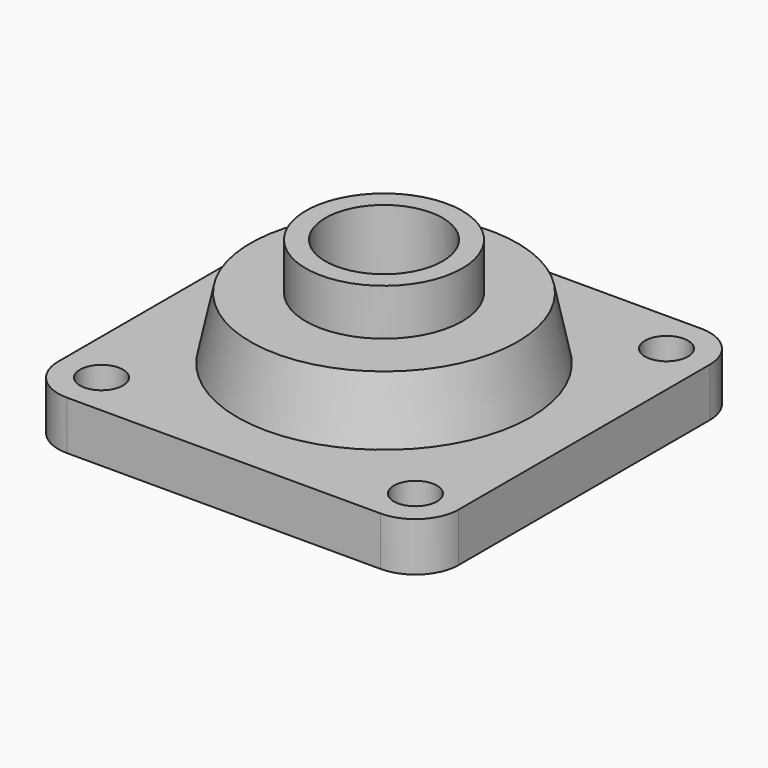
from build123d import *

# Parameters (mm, degrees)
SKETCH001_R   = 7
SKETCH001_R_2 = 19.05
PAD_DEPTH     = 15.875


with BuildPart() as part:
    # Sketch → Revolution (revolve)
    with BuildSketch(Plane.XZ):
        Polygon((19.05, 0), (19.05, 51.2064), (25.4, 51.2064), (25.4, 36.068), (43.4, 36.068), (51.05, 0), align=None)
    revolve(axis=Axis((0, 0, 0), (0, 0, 1)))

    # Sketch001 → Pad (new body)
    with BuildSketch(Plane.XY):
        with BuildLine():
            ThreePointArc((-51.005, 65.0875), (-60.962831, 60.962831), (-65.0875, 51.005))
            Line((-65.0875, -51.005), (-65.0875, 51.005))
            ThreePointArc((-65.0875, -51.005), (-60.962831, -60.962831), (-51.005, -65.0875))
            Line((51.005, -65.0875), (-51.005, -65.0875))
            ThreePointArc((51.005, -65.0875), (60.962831, -60.962831), (65.0875, -51.005))
            Line((65.0875, 51.005), (65.0875, -51.005))
            ThreePointArc((65.0875, 51.005), (60.962831, 60.962831), (51.005, 65.0875))
            Line((-51.005, 65.0875), (51.005, 65.0875))
        make_face()
        with Locations((51.005, 51.005)):
            Circle(SKETCH001_R, mode=Mode.SUBTRACT)
        with Locations((-51.005, 51.005)):
            Circle(SKETCH001_R, mode=Mode.SUBTRACT)
        with Locations((-51.005, -51.005)):
            Circle(SKETCH001_R, mode=Mode.SUBTRACT)
        with Locations((51.005, -51.005)):
            Circle(SKETCH001_R, mode=Mode.SUBTRACT)
        Circle(SKETCH001_R_2, mode=Mode.SUBTRACT)
    extrude(amount=PAD_DEPTH)


solid = part.part
